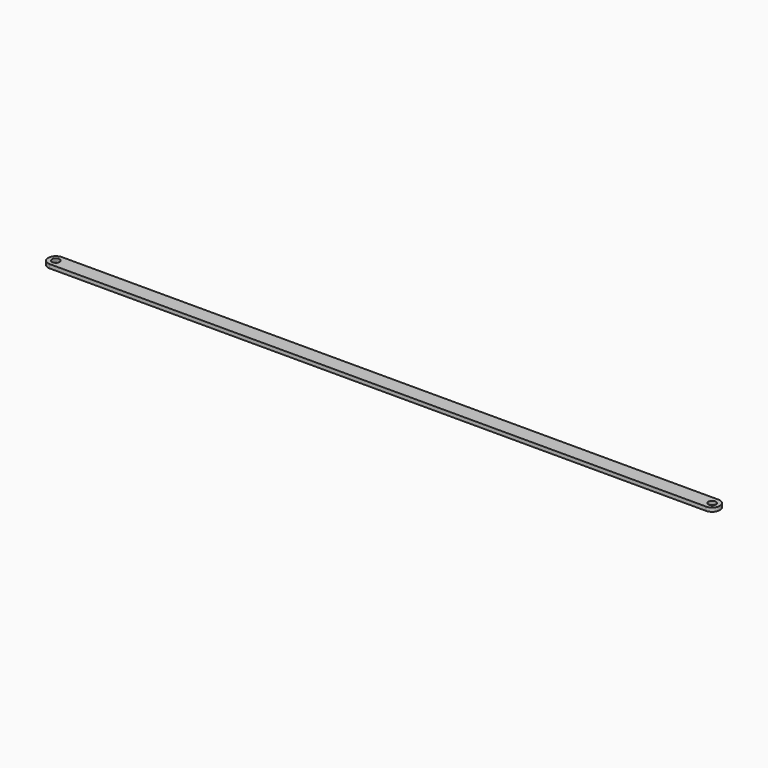
from build123d import *

# Parameters (mm, degrees)
F0_R     = 20
F1_DEPTH = 10


with BuildPart() as f1:
    # F0 (on Top) → F1 (new body, symmetric)
    with BuildSketch(Plane.XY):
        with BuildLine():
            Line((1723.205, -40), (1723.205, 0))
            Line((1723.205, 0), (1723.205, 40))
            Line((1723.205, 40), (0, 40))
            ThreePointArc((0, 40), (-40, 0), (0, -40))
            Line((0, -40), (1723.205, -40))
        make_face()
        Circle(F0_R, mode=Mode.SUBTRACT)
        with BuildLine():
            Line((1723.205, 40), (1723.205, 0))
            Line((1723.205, 0), (1723.205, -40))
            Line((1723.205, -40), (3446.41, -40))
            ThreePointArc((3446.41, -40), (3486.41, 0), (3446.41, 40))
            Line((3446.41, 40), (1723.205, 40))
        make_face()
        with BuildLine():
            ThreePointArc((3466.41, 0), (3446.41, -20), (3426.41, 0))
            ThreePointArc((3426.41, 0), (3446.41, 20), (3466.41, 0))
        make_face(mode=Mode.SUBTRACT)
    extrude(amount=F1_DEPTH, both=True)


solid = f1.part
